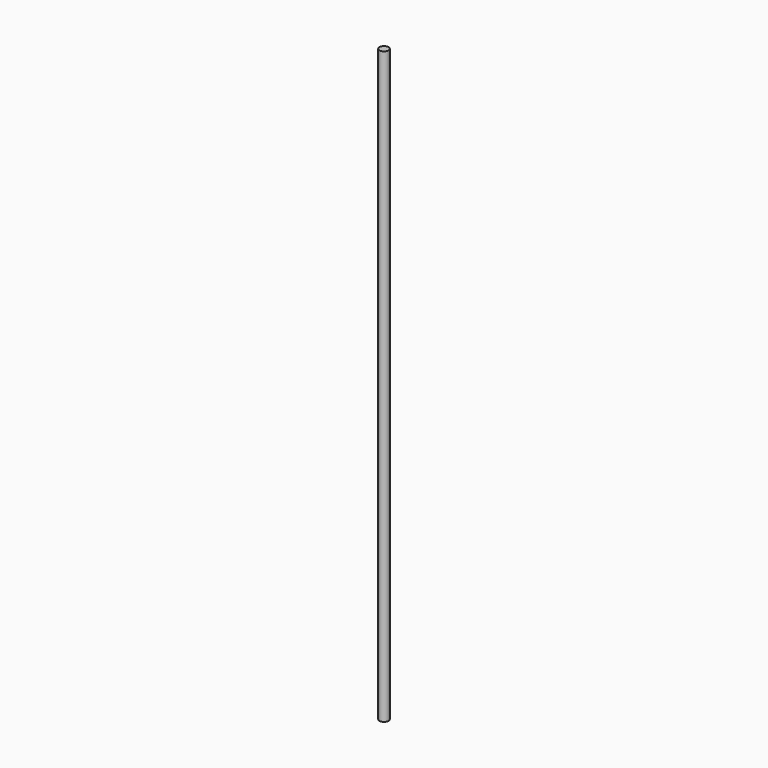
from build123d import *

# Parameters (mm, degrees)
CYLINDER_R     = 4
CYLINDER_DEPTH = 525


with BuildPart() as part:
    # Cylinder → Cylinder (new body)
    with BuildSketch(Plane.XY):
        Circle(CYLINDER_R)
    extrude(amount=CYLINDER_DEPTH)


solid = part.part
